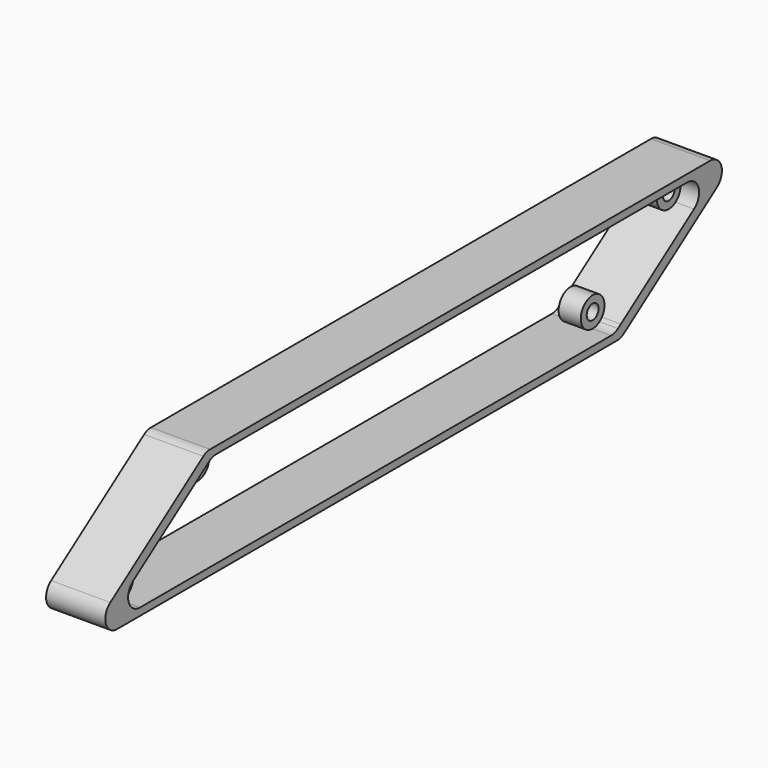
from build123d import *

# Parameters (mm, degrees)
F2_DEPTH = 40
F3_R     = 10
F4_R     = 10
F4_R_2   = 5
F5_DEPTH = 7.5


with BuildPart() as f2:
    # F1 (on Right) → F2 (new body)
    with BuildSketch(Plane.YZ):
        Polygon((175, 32.5), (175, 37.5), (-175, 37.5), (-175, 28.998962), (-170, 32.5), (170, 32.5), align=None)
        Polygon((282.111101, 37.5), (175, 37.5), (175, 32.5), (262.82962, 32.5), (175, -28.998962), (175, -37.5), align=None)
        Polygon((-175, 28.998962), (-175, 37.5), (-282.111101, -37.5), (-175, -37.5), (-175, -32.5), (-262.82962, -32.5), align=None)
        Polygon((175, -37.5), (175, -28.998962), (170, -32.5), (-170, -32.5), (-175, -32.5), (-175, -37.5), align=None)
    extrude(amount=F2_DEPTH)

    # F3
    f3_edges = [f2.edges().sort_by_distance(p)[0] for p in [
        (20, 282.111101, 37.5),
        (20, 262.82962, 32.5),
        (20, 170, -32.5),
        (20, -282.111101, -37.5),
        (20, -175, 37.5),
        (20, -170, 32.5),
        (20, -262.82962, -32.5),
        (20, 175, -37.5),
    ]]
    fillet(f3_edges, radius=F3_R)

    # F4 (on offset) → F5 (join, symmetric)
    with BuildSketch(Plane.YZ.offset(20)):
        with Locations((-166.847012, 22.5)):
            Circle(F4_R)
        with Locations((-166.847012, 22.5)):
            Circle(F4_R_2, mode=Mode.SUBTRACT)
        with Locations((-231.113672, -22.5)):
            Circle(F4_R)
        with Locations((-231.113672, -22.5)):
            Circle(F4_R_2, mode=Mode.SUBTRACT)
        with Locations((166.847012, -22.5)):
            Circle(F4_R)
        with Locations((166.847012, -22.5)):
            Circle(F4_R_2, mode=Mode.SUBTRACT)
        with Locations((231.113672, 22.5)):
            Circle(F4_R)
        with Locations((231.113672, 22.5)):
            Circle(F4_R_2, mode=Mode.SUBTRACT)
    extrude(amount=F5_DEPTH, both=True)


solid = f2.part
